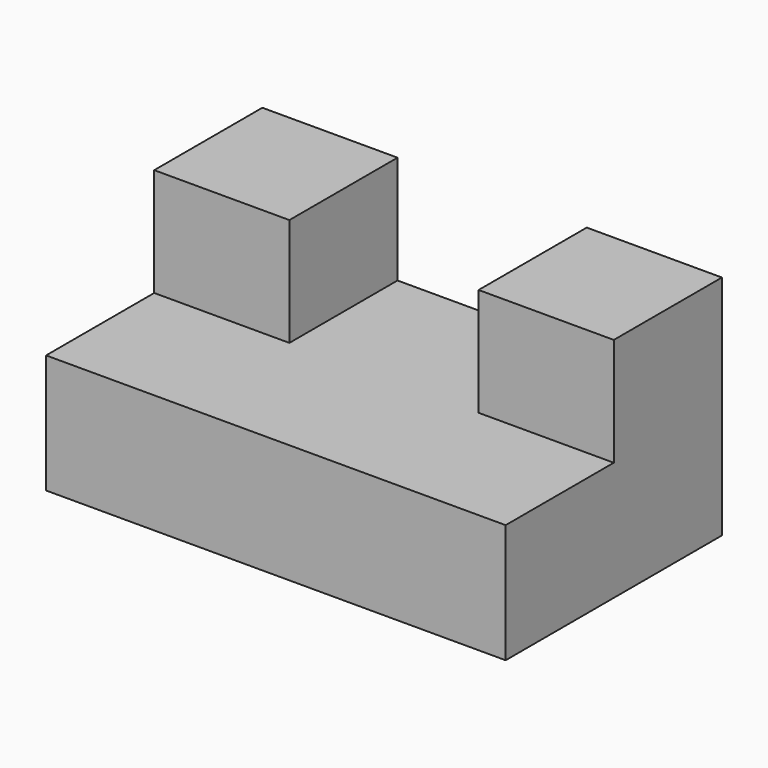
from build123d import *

# Parameters (mm, degrees)
F1_DEPTH = 50
F0_W     = 25
F0_H     = 20
F2_DEPTH = 25


with BuildPart() as f1:
    # F0 (on Front) → F1 (new body)
    with BuildSketch(Plane.XZ):
        Polygon((25, 0), (0, 0), (0, -22), (85, -22), (85, 0), (60, 0), align=None)
    extrude(amount=F1_DEPTH)

    # F0 (on Front) → F2 (join)
    with BuildSketch(Plane.XZ):
        with Locations((12.5, 10)):
            Rectangle(F0_W, F0_H)
        Polygon((25, 0), (0, 0), (0, -22), (85, -22), (85, 0), (60, 0), align=None)
        with Locations((72.5, 10)):
            Rectangle(F0_W, F0_H)
    extrude(amount=F2_DEPTH)


solid = f1.part
